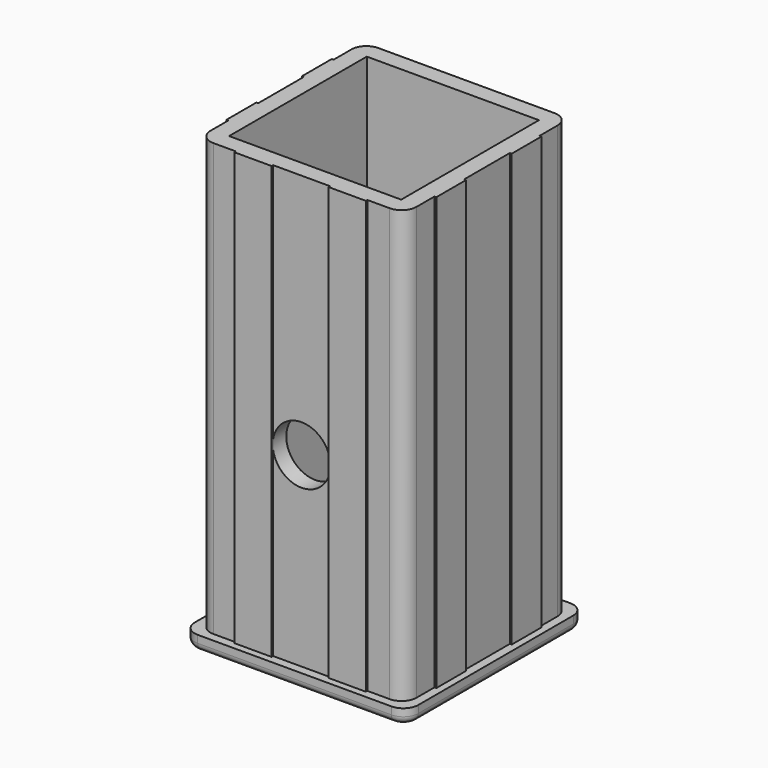
from build123d import *

# Parameters (mm, degrees)
F0_W     = 46.2
F0_H     = 46.2
F1_DEPTH = 116
F0_W_2   = 60
F0_H_2   = 60
F2_DEPTH = 4
F3_R     = 4
F4_R     = 2
F6_R     = 7.75
F7_DEPTH = 80


with BuildPart() as f1:
    # F0 (on Top) → F1 (new body)
    with BuildSketch(Plane.XY):
        Polygon((27.65, 17.65), (27.65, 27.65), (-27.65, 27.65), (-27.65, 17.65), (-28.15, 17.65), (-28.15, 7.65), (-27.65, 7.65), (-27.65, -7.65), (-28.15, -7.65), (-28.15, -17.65), (-27.65, -17.65), (-27.65, -27.65), (-17.65, -27.65), (-17.65, -28.15), (-7.65, -28.15), (-7.65, -27.65), (7.65, -27.65), (7.65, -28.15), (17.65, -28.15), (17.65, -27.65), (27.65, -27.65), (27.65, -17.65), (28.15, -17.65), (28.15, -7.65), (27.65, -7.65), (27.65, 7.65), (28.15, 7.65), (28.15, 17.65), align=None)
        Rectangle(F0_W, F0_H, mode=Mode.SUBTRACT)
    extrude(amount=F1_DEPTH)

    # F0 (on Top) → F2 (join)
    with BuildSketch(Plane.XY):
        Rectangle(F0_W_2, F0_H_2)
        Polygon((-27.65, 27.65), (27.65, 27.65), (27.65, 17.65), (28.15, 17.65), (28.15, 7.65), (27.65, 7.65), (27.65, -7.65), (28.15, -7.65), (28.15, -17.65), (27.65, -17.65), (27.65, -27.65), (17.65, -27.65), (17.65, -28.15), (7.65, -28.15), (7.65, -27.65), (-7.65, -27.65), (-7.65, -28.15), (-17.65, -28.15), (-17.65, -27.65), (-27.65, -27.65), (-27.65, -17.65), (-28.15, -17.65), (-28.15, -7.65), (-27.65, -7.65), (-27.65, 7.65), (-28.15, 7.65), (-28.15, 17.65), (-27.65, 17.65), align=None, mode=Mode.SUBTRACT)
        Polygon((27.65, 17.65), (27.65, 27.65), (-27.65, 27.65), (-27.65, 17.65), (-28.15, 17.65), (-28.15, 7.65), (-27.65, 7.65), (-27.65, -7.65), (-28.15, -7.65), (-28.15, -17.65), (-27.65, -17.65), (-27.65, -27.65), (-17.65, -27.65), (-17.65, -28.15), (-7.65, -28.15), (-7.65, -27.65), (7.65, -27.65), (7.65, -28.15), (17.65, -28.15), (17.65, -27.65), (27.65, -27.65), (27.65, -17.65), (28.15, -17.65), (28.15, -7.65), (27.65, -7.65), (27.65, 7.65), (28.15, 7.65), (28.15, 17.65), align=None)
        Rectangle(F0_W, F0_H, mode=Mode.SUBTRACT)
    extrude(amount=-F2_DEPTH)

    # F3
    f3_edges = [f1.edges().sort_by_distance(p)[0] for p in [
        (-27.65, 27.65, 58),
        (-27.65, -27.65, 58),
        (27.65, -27.65, 58),
        (27.65, 27.65, 58),
        (30, 30, -2),
        (30, -30, -2),
        (-30, 30, -2),
        (-30, -30, -2),
    ]]
    fillet(f3_edges, radius=F3_R)

    # F4
    f4_edges = [f1.edges().sort_by_distance(p)[0] for p in [
        (30, 0, -4),
    ]]
    fillet(f4_edges, radius=F4_R)

    # F6 (on offset) → F7 (cut)
    with BuildSketch(Plane.XZ.offset(27.65)):
        with Locations((0, 50)):
            Circle(F6_R)
    extrude(amount=-F7_DEPTH, mode=Mode.SUBTRACT)


solid = f1.part
